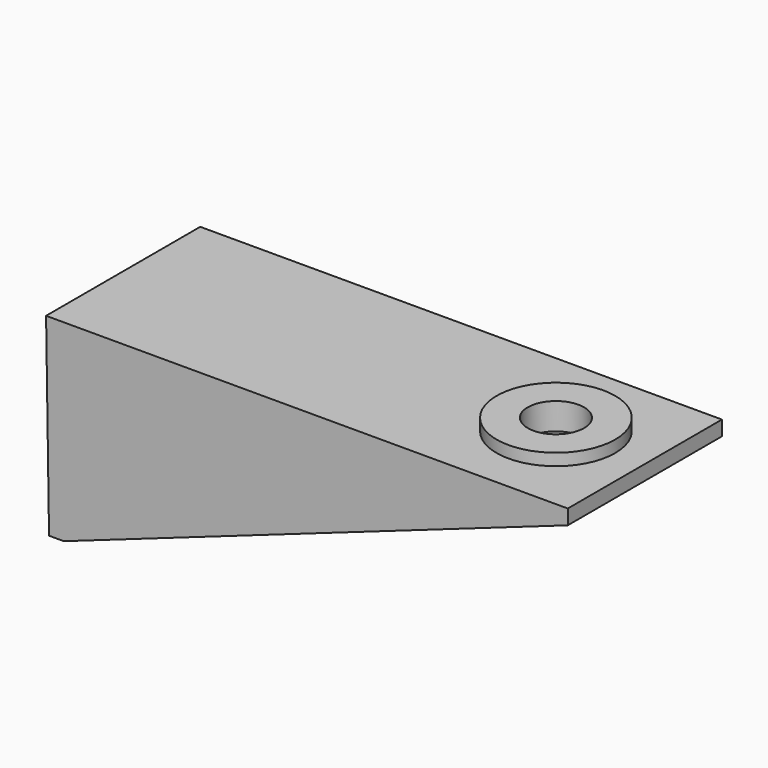
from build123d import *

# Parameters (mm, degrees)
SKETCH_W        = 175
SKETCH_H        = 65
PAD_DEPTH       = 5
SKETCH001_R     = 20
PAD001_DEPTH    = 4
SKETCH002_R     = 9.5
POCKET_DEPTH    = 9.01
PAD002_DEPTH    = 65
PAD003_DEPTH    = 5
PAD004_DEPTH    = 5
SKETCH006_R     = 4.15
POCKET001_DEPTH = 2
POCKET001_TAPER = 45
SKETCH007_R     = 2.1
POCKET002_DEPTH = 5


with BuildPart() as part:
    # Sketch → Pad (new body)
    with BuildSketch(Plane.XY):
        Rectangle(SKETCH_W, SKETCH_H)
    extrude(amount=PAD_DEPTH)

    # Sketch001 (on Face6 of Pad) → Pad001 (join)
    with BuildSketch(Plane.XY.offset(5)):
        with Locations((57.5, 0)):
            Circle(SKETCH001_R)
    extrude(amount=PAD001_DEPTH)

    # Sketch002 (on Face8 of Pad001) → Pocket (cut)
    with BuildSketch(Plane.XY.offset(9)):
        with Locations((57.5, 0)):
            Circle(SKETCH002_R)
    extrude(amount=-POCKET_DEPTH, mode=Mode.SUBTRACT)

    # Sketch003 (on Face6 of Pocket) → Pad002 (join)
    with BuildSketch(Plane.XZ.offset(32.5)):
        Polygon((-88.5, 5), (-87.5, -60), (-82.5, -60), (-82.5, 5), align=None)
    extrude(amount=-PAD002_DEPTH)

    # Sketch004 (on Face3 of Pad002) → Pad003 (join)
    with BuildSketch(Plane(origin=(0, 32.5, 0), x_dir=(-1, 0, 0), z_dir=(0, 1, 0))):
        Polygon((-87.5, 5), (-87.5, 0), (82.5, -60), (87.5, -60), (88.5, 5), align=None)
    extrude(amount=-PAD003_DEPTH)

    # Sketch005 (on Face23 of Pad003) → Pad004 (join)
    with BuildSketch(Plane.XZ.offset(32.5)):
        Polygon((-88.5, 5), (-87.5, -60), (-82.5, -60), (87.5, 0), (87.5, 5), align=None)
    extrude(amount=-PAD004_DEPTH)

    # Sketch006 (on Face21 of Pad004) → Pocket001 (cut)
    with BuildSketch(Plane.YZ.offset(-82.5)):
        with Locations((0, -25)):
            Circle(SKETCH006_R)
        with Locations((-12.5, -50)):
            Circle(SKETCH006_R)
        with Locations((12.5, -50)):
            Circle(SKETCH006_R)
    extrude(amount=-POCKET001_DEPTH, taper=POCKET001_TAPER, mode=Mode.SUBTRACT)

    # Sketch007 (on Face41 of Pocket001) → Pocket002 (cut)
    with BuildSketch(Plane.YZ.offset(-84.5)):
        with Locations((0, -25)):
            Circle(SKETCH007_R)
        with Locations((12.5, -50)):
            Circle(SKETCH007_R)
        with Locations((-12.5, -50)):
            Circle(SKETCH007_R)
    extrude(amount=-POCKET002_DEPTH, mode=Mode.SUBTRACT)


solid = part.part
